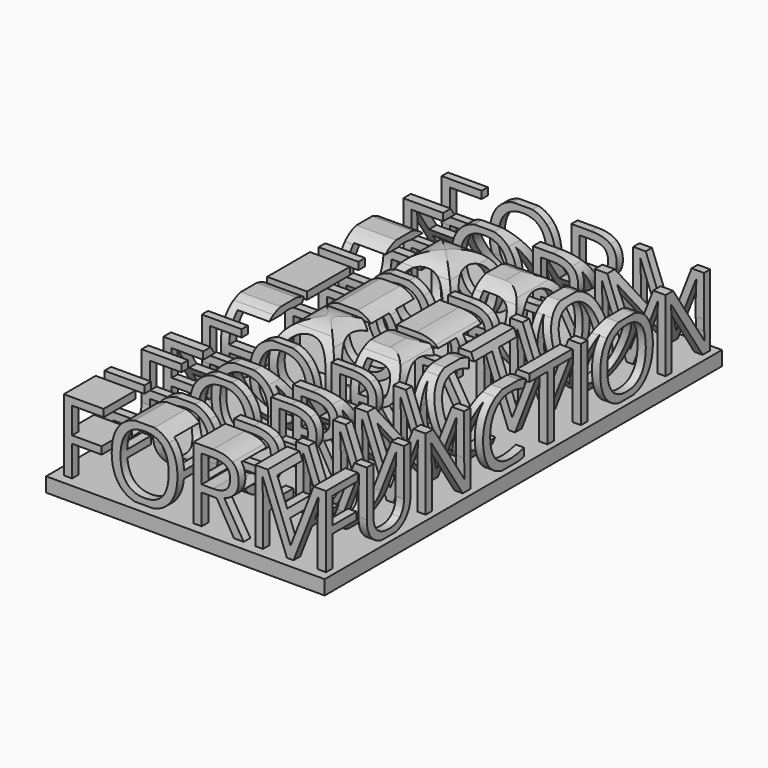
from build123d import *

# Parameters (mm, degrees)
F2_W     = 2.926953125
F2_H     = 25.1850260417
F3_DEPTH = 136.144
F4_DEPTH = 191.516


with BuildPart() as f3:
    # F2 (on offset) → F3 (new body)
    with BuildSketch(Plane.YZ.offset(127)):
        with BuildLine():
            Line((3.4616319444, 0), (0, 0))
            Line((0, 0), (0, -5.08))
            Line((0, -5.08), (174.9888020833, -5.08))
            Line((174.9888020833, -5.08), (174.9888020833, 0))
            Line((174.9888020833, 0), (172.7012586806, 0))
            Line((172.7012586806, 0), (169.3608940972, 0))
            Line((169.3608940972, 0), (155.7348524306, 0))
            Line((155.7348524306, 0), (153.0283854167, 0))
            Line((153.0283854167, 0), (139.0643108288, 0))
            add(Edge.make_bspline(
                [(139.0643108288, 0), (137.5805168301, -0.347265625), (135.8580295139, -0.347265625)],
                knots=[0.6833950988, 0.6833950988, 0.6833950988, 1, 1, 1], degree=2))
            add(Edge.make_bspline(
                [(135.8580295139, -0.347265625), (134.0815336274, -0.347265625), (132.5640107293, 0)],
                knots=[0, 0, 0, 0.319412416, 0.319412416, 0.319412416], degree=2))
            Line((132.5640107293, 0), (118.6490885417, 0))
            Line((118.6490885417, 0), (115.7221354167, 0))
            Line((115.7221354167, 0), (103.9536892361, 0))
            Line((103.9536892361, 0), (101.0267361111, 0))
            Line((101.0267361111, 0), (88.3756171691, 0))
            add(Edge.make_bspline(
                [(88.3756171691, 0), (86.5270236004, -0.347265625), (84.2477430556, -0.347265625)],
                knots=[0.406741787, 0.406741787, 0.406741787, 1, 1, 1], degree=2))
            add(Edge.make_bspline(
                [(84.2477430556, -0.347265625), (82.4647385118, -0.347265625), (80.9426080633, 0)],
                knots=[0, 0, 0, 0.3205826669, 0.3205826669, 0.3205826669], degree=2))
            Line((80.9426080633, 0), (67.022265625, 0))
            Line((67.022265625, 0), (63.6819010417, 0))
            Line((63.6819010417, 0), (50.055859375, 0))
            Line((50.055859375, 0), (47.3493923611, 0))
            Line((47.3493923611, 0), (34.0744199782, 0))
            add(Edge.make_bspline(
                [(34.0744199782, 0), (32.6414301082, -0.347265625), (30.9342013889, -0.347265625)],
                knots=[0.6245807712, 0.6245807712, 0.6245807712, 1, 1, 1], degree=2))
            add(Edge.make_bspline(
                [(30.9342013889, -0.347265625), (29.2336174549, -0.347265625), (27.8209440891, 0)],
                knots=[0, 0, 0, 0.3739580419, 0.3739580419, 0.3739580419], degree=2))
            Line((27.8209440891, 0), (6.3885850694, 0))
            Line((6.3885850694, 0), (3.4616319444, 0))
        make_face()
        Polygon((3.4616319444, 25.1850260417), (3.4616319444, 0), (6.3885850694, 0), (6.3885850694, 10.765234375), (16.8286024306, 10.765234375), (16.8286024306, 13.3669704861), (6.3885850694, 13.3669704861), (6.3885850694, 22.5832899306), (17.5010850694, 22.5832899306), (17.5010850694, 25.1850260417), align=None)
        with BuildLine():
            add(Edge.make_bspline(
                [(27.8209440891, 0), (25.4559921397, 0.5813562686), (23.8979383681, 2.1359592014)],
                knots=[0.3739580419, 0.3739580419, 0.3739580419, 1, 1, 1], degree=2))
            Line((27.8209440891, 0), (34.0744199782, 0))
            add(Edge.make_bspline(
                [(38.0834635417, 2.1166666667), (36.4584691948, 0.5777419356), (34.0744199782, 0)],
                knots=[0, 0, 0, 0.6245807712, 0.6245807712, 0.6245807712], degree=2))
            add(Edge.make_bspline(
                [(40.6851996528, 8.8911024306), (40.6851996528, 4.5805989583), (38.0834635417, 2.1166666667)],
                knots=[0, 0, 0, 1, 1, 1], degree=2))
            Line((40.6851996528, 8.8911024306), (40.6851996528, 25.1850260417))
            Line((40.6851996528, 25.1850260417), (37.7582465278, 25.1850260417))
            Line((37.7582465278, 25.1850260417), (37.7582465278, 8.7863715278))
            add(Edge.make_bspline(
                [(36.0356987847, 3.919140625), (37.7582465278, 5.6168836806), (37.7582465278, 8.7863715278)],
                knots=[0, 0, 0, 1, 1, 1], degree=2))
            add(Edge.make_bspline(
                [(31.1271267361, 2.2213975694), (34.3131510417, 2.2213975694), (36.0356987847, 3.919140625)],
                knots=[0, 0, 0, 1, 1, 1], degree=2))
            add(Edge.make_bspline(
                [(26.0642144097, 3.9108723958), (27.7867621528, 2.2213975694), (31.1271267361, 2.2213975694)],
                knots=[0, 0, 0, 1, 1, 1], degree=2))
            add(Edge.make_bspline(
                [(24.3416666667, 8.7532986111), (24.3416666667, 5.6003472222), (26.0642144097, 3.9108723958)],
                knots=[0, 0, 0, 1, 1, 1], degree=2))
            Line((24.3416666667, 8.7532986111), (24.3416666667, 25.1850260417))
            Line((24.3416666667, 25.1850260417), (21.4092013889, 25.1850260417))
            Line((21.4092013889, 25.1850260417), (21.4092013889, 8.9572482639))
            add(Edge.make_bspline(
                [(23.8979383681, 2.1359592014), (21.4092013889, 4.6191840278), (21.4092013889, 8.9572482639)],
                knots=[0, 0, 0, 1, 1, 1], degree=2))
        make_face()
        with BuildLine():
            Line((34.0744199782, 0), (27.8209440891, 0))
            add(Edge.make_bspline(
                [(30.9342013889, -0.347265625), (29.2336174549, -0.347265625), (27.8209440891, 0)],
                knots=[0, 0, 0, 0.3739580419, 0.3739580419, 0.3739580419], degree=2))
            add(Edge.make_bspline(
                [(34.0744199782, 0), (32.6414301082, -0.347265625), (30.9342013889, -0.347265625)],
                knots=[0.6245807712, 0.6245807712, 0.6245807712, 1, 1, 1], degree=2))
        make_face()
        with BuildLine():
            Line((169.3608940972, 0), (172.7012586806, 0))
            Line((172.7012586806, 0), (172.7012586806, 25.1850260417))
            Line((172.7012586806, 25.1850260417), (169.96171875, 25.1850260417))
            Line((169.96171875, 25.1850260417), (169.96171875, 10.7321614583))
            add(Edge.make_bspline(
                [(170.0499131944, 7.1217013889), (169.9286458333, 9.6462673611), (169.96171875, 10.7321614583)],
                knots=[0, 0, 0, 1, 1, 1], degree=2))
            add(Edge.make_bspline(
                [(170.2042534722, 4.1341145833), (170.1711805556, 4.5971354167), (170.0499131944, 7.1217013889)],
                knots=[0, 0, 0, 1, 1, 1], degree=2))
            Line((170.2042534722, 4.1341145833), (170.0664496528, 4.1341145833))
            Line((170.0664496528, 4.1341145833), (156.3356770833, 25.1850260417))
            Line((156.3356770833, 25.1850260417), (153.0283854167, 25.1850260417))
            Line((153.0283854167, 25.1850260417), (153.0283854167, 0))
            Line((153.0283854167, 0), (155.7348524306, 0))
            Line((155.7348524306, 0), (155.7348524306, 14.3150607639))
            add(Edge.make_bspline(
                [(155.4592447917, 21.13359375), (155.7348524306, 17.412890625), (155.7348524306, 14.3150607639)],
                knots=[0, 0, 0, 1, 1, 1], degree=2))
            Line((155.4592447917, 21.13359375), (155.5970486111, 21.13359375))
            Line((155.5970486111, 21.13359375), (169.3608940972, 0))
        make_face()
        with BuildLine():
            Line((47.3493923611, 25.1850260417), (47.3493923611, 0))
            Line((47.3493923611, 0), (50.055859375, 0))
            Line((50.055859375, 0), (50.055859375, 14.3150607639))
            add(Edge.make_bspline(
                [(49.7802517361, 21.13359375), (50.055859375, 17.412890625), (50.055859375, 14.3150607639)],
                knots=[0, 0, 0, 1, 1, 1], degree=2))
            Line((49.7802517361, 21.13359375), (49.9180555556, 21.13359375))
            Line((49.9180555556, 21.13359375), (63.6819010417, 0))
            Line((63.6819010417, 0), (67.022265625, 0))
            Line((67.022265625, 0), (67.022265625, 25.1850260417))
            Line((67.022265625, 25.1850260417), (64.2827256944, 25.1850260417))
            Line((64.2827256944, 25.1850260417), (64.2827256944, 10.7321614583))
            add(Edge.make_bspline(
                [(64.3709201389, 7.1217013889), (64.2496527778, 9.6462673611), (64.2827256944, 10.7321614583)],
                knots=[0, 0, 0, 1, 1, 1], degree=2))
            add(Edge.make_bspline(
                [(64.5252604167, 4.1341145833), (64.4921875, 4.5971354167), (64.3709201389, 7.1217013889)],
                knots=[0, 0, 0, 1, 1, 1], degree=2))
            Line((64.5252604167, 4.1341145833), (64.3874565972, 4.1341145833))
            Line((64.3874565972, 4.1341145833), (50.6566840278, 25.1850260417))
            Line((50.6566840278, 25.1850260417), (47.3493923611, 25.1850260417))
        make_face()
        with BuildLine():
            add(Edge.make_bspline(
                [(139.0643108288, 0), (137.5805168301, -0.347265625), (135.8580295139, -0.347265625)],
                knots=[0.6833950988, 0.6833950988, 0.6833950988, 1, 1, 1], degree=2))
            Line((139.0643108288, 0), (132.5640107293, 0))
            add(Edge.make_bspline(
                [(135.8580295139, -0.347265625), (134.0815336274, -0.347265625), (132.5640107293, 0)],
                knots=[0, 0, 0, 0.319412416, 0.319412416, 0.319412416], degree=2))
        make_face()
        with BuildLine():
            Line((132.5640107293, 0), (139.0643108288, 0))
            add(Edge.make_bspline(
                [(144.3577690972, 3.1171223958), (142.2670962007, 0.7495766022), (139.0643108288, 0)],
                knots=[0, 0, 0, 0.6833950988, 0.6833950988, 0.6833950988], degree=2))
            add(Edge.make_bspline(
                [(147.4170138889, 12.6283420139), (147.4170138889, 6.5815104167), (144.3577690972, 3.1171223958)],
                knots=[0, 0, 0, 1, 1, 1], degree=2))
            add(Edge.make_bspline(
                [(144.3687934028, 22.1368055556), (147.4170138889, 18.6917100694), (147.4170138889, 12.6283420139)],
                knots=[0, 0, 0, 1, 1, 1], degree=2))
            add(Edge.make_bspline(
                [(135.8911024306, 25.5819010417), (141.3205729167, 25.5819010417), (144.3687934028, 22.1368055556)],
                knots=[0, 0, 0, 1, 1, 1], degree=2))
            add(Edge.make_bspline(
                [(127.2811197917, 22.1974392361), (130.3128038194, 25.5819010417), (135.8911024306, 25.5819010417)],
                knots=[0, 0, 0, 1, 1, 1], degree=2))
            add(Edge.make_bspline(
                [(124.2494357639, 12.6614149306), (124.2494357639, 18.8129774306), (127.2811197917, 22.1974392361)],
                knots=[0, 0, 0, 1, 1, 1], degree=2))
            add(Edge.make_bspline(
                [(127.2728515625, 3.0564887153), (124.2494357639, 6.4602430556), (124.2494357639, 12.6614149306)],
                knots=[0, 0, 0, 1, 1, 1], degree=2))
            add(Edge.make_bspline(
                [(132.5640107293, 0), (129.3305508163, 0.7399357723), (127.2728515625, 3.0564887153)],
                knots=[0.319412416, 0.319412416, 0.319412416, 1, 1, 1], degree=2))
        make_face()
        with BuildLine():
            add(Edge.make_bspline(
                [(127.347265625, 12.6283420139), (127.347265625, 7.5130642361), (129.5273220486, 4.8672309028)],
                knots=[0, 0, 0, 1, 1, 1], degree=2))
            add(Edge.make_bspline(
                [(129.5273220486, 20.3177951389), (127.347265625, 17.6719618056), (127.347265625, 12.6283420139)],
                knots=[0, 0, 0, 1, 1, 1], degree=2))
            add(Edge.make_bspline(
                [(135.8911024306, 22.9636284722), (131.7073784722, 22.9636284722), (129.5273220486, 20.3177951389)],
                knots=[0, 0, 0, 1, 1, 1], degree=2))
            add(Edge.make_bspline(
                [(142.1859809028, 20.3370876736), (140.0582899306, 22.9636284722), (135.8911024306, 22.9636284722)],
                knots=[0, 0, 0, 1, 1, 1], degree=2))
            add(Edge.make_bspline(
                [(144.313671875, 12.6283420139), (144.313671875, 17.710546875), (142.1859809028, 20.3370876736)],
                knots=[0, 0, 0, 1, 1, 1], degree=2))
            add(Edge.make_bspline(
                [(142.1777126736, 4.8562065972), (144.313671875, 7.491015625), (144.313671875, 12.6283420139)],
                knots=[0, 0, 0, 1, 1, 1], degree=2))
            add(Edge.make_bspline(
                [(135.8580295139, 2.2213975694), (140.0417534722, 2.2213975694), (142.1777126736, 4.8562065972)],
                knots=[0, 0, 0, 1, 1, 1], degree=2))
            add(Edge.make_bspline(
                [(129.5273220486, 4.8672309028), (131.7073784722, 2.2213975694), (135.8580295139, 2.2213975694)],
                knots=[0, 0, 0, 1, 1, 1], degree=2))
        make_face(mode=Mode.SUBTRACT)
        with BuildLine():
            add(Edge.make_bspline(
                [(80.9426080633, 0), (77.7167262029, 0.7359670661), (75.6625651042, 3.0316840278)],
                knots=[0.3205826669, 0.3205826669, 0.3205826669, 1, 1, 1], degree=2))
            Line((80.9426080633, 0), (88.3756171691, 0))
            add(Edge.make_bspline(
                [(90.7079861111, 0.6394097222), (89.6430252473, 0.2380876283), (88.3756171691, 0)],
                knots=[0, 0, 0, 0.406741787, 0.406741787, 0.406741787], degree=2))
            Line((90.7079861111, 0.6394097222), (90.7079861111, 3.2025607639))
            add(Edge.make_bspline(
                [(84.6942274306, 2.2544704861), (87.3290364583, 2.2544704861), (90.7079861111, 3.2025607639)],
                knots=[0, 0, 0, 1, 1, 1], degree=2))
            add(Edge.make_bspline(
                [(78.0879123264, 4.9526692708), (80.4057725694, 2.2544704861), (84.6942274306, 2.2544704861)],
                knots=[0, 0, 0, 1, 1, 1], degree=2))
            add(Edge.make_bspline(
                [(75.7700520833, 12.5897569444), (75.7700520833, 7.6508680556), (78.0879123264, 4.9526692708)],
                knots=[0, 0, 0, 1, 1, 1], degree=2))
            add(Edge.make_bspline(
                [(78.1733506944, 20.1606987847), (75.7700520833, 17.3963541667), (75.7700520833, 12.5897569444)],
                knots=[0, 0, 0, 1, 1, 1], degree=2))
            add(Edge.make_bspline(
                [(84.7273003472, 22.9250434028), (80.5766493056, 22.9250434028), (78.1733506944, 20.1606987847)],
                knots=[0, 0, 0, 1, 1, 1], degree=2))
            add(Edge.make_bspline(
                [(90.4489149306, 21.5855902778), (87.5881076389, 22.9250434028), (84.7273003472, 22.9250434028)],
                knots=[0, 0, 0, 1, 1, 1], degree=2))
            Line((90.4489149306, 21.5855902778), (91.6891493056, 24.0991319444))
            add(Edge.make_bspline(
                [(84.7658854167, 25.5433159722), (88.7236111111, 25.5433159722), (91.6891493056, 24.0991319444)],
                knots=[0, 0, 0, 1, 1, 1], degree=2))
            add(Edge.make_bspline(
                [(78.2973741319, 23.9585720486), (81.0451822917, 25.5433159722), (84.7658854167, 25.5433159722)],
                knots=[0, 0, 0, 1, 1, 1], degree=2))
            add(Edge.make_bspline(
                [(74.0943576389, 19.446875), (75.5495659722, 22.373828125), (78.2973741319, 23.9585720486)],
                knots=[0, 0, 0, 1, 1, 1], degree=2))
            add(Edge.make_bspline(
                [(72.6391493056, 12.6283420139), (72.6391493056, 16.519921875), (74.0943576389, 19.446875)],
                knots=[0, 0, 0, 1, 1, 1], degree=2))
            add(Edge.make_bspline(
                [(75.6625651042, 3.0316840278), (72.6391493056, 6.4106336806), (72.6391493056, 12.6283420139)],
                knots=[0, 0, 0, 1, 1, 1], degree=2))
        make_face()
        with BuildLine():
            Line((88.3756171691, 0), (80.9426080633, 0))
            add(Edge.make_bspline(
                [(84.2477430556, -0.347265625), (82.4647385118, -0.347265625), (80.9426080633, 0)],
                knots=[0, 0, 0, 0.3205826669, 0.3205826669, 0.3205826669], degree=2))
            add(Edge.make_bspline(
                [(88.3756171691, 0), (86.5270236004, -0.347265625), (84.2477430556, -0.347265625)],
                knots=[0.406741787, 0.406741787, 0.406741787, 1, 1, 1], degree=2))
        make_face()
        with Locations((117.1856119792, 12.5925130208)):
            Rectangle(F2_W, F2_H)
        Polygon((101.0267361111, 22.5832899306), (101.0267361111, 0), (103.9536892361, 0), (103.9536892361, 22.5832899306), (111.9297743056, 22.5832899306), (111.9297743056, 25.1850260417), (93.0506510417, 25.1850260417), (93.0506510417, 22.5832899306), align=None)
    extrude(amount=-F3_DEPTH)


with BuildPart() as f4:
    # F0 (on Front) → F4 (new body)
    with BuildSketch(Plane.XZ):
        with BuildLine():
            Line((3.4616319444, 0), (0, 0))
            Line((0, 0), (0, -5.08))
            Line((0, -5.08), (98.176953125, -5.08))
            Line((98.176953125, -5.08), (98.176953125, 0))
            Line((98.176953125, 0), (95.8894097222, 0))
            Line((95.8894097222, 0), (92.9624565972, 0))
            Line((92.9624565972, 0), (84.4516927083, 0))
            Line((84.4516927083, 0), (82.0924913194, 0))
            Line((82.0924913194, 0), (73.6533854167, 0))
            Line((73.6533854167, 0), (70.9469184028, 0))
            Line((70.9469184028, 0), (66.8844618056, 0))
            Line((66.8844618056, 0), (63.4228298611, 0))
            Line((63.4228298611, 0), (52.0677951389, 0))
            Line((52.0677951389, 0), (49.1408420139, 0))
            Line((49.1408420139, 0), (35.176767426, 0))
            add(Edge.make_bspline(
                [(35.176767426, 0), (33.6929734273, -0.347265625), (31.9704861111, -0.347265625)],
                knots=[0.6833950988, 0.6833950988, 0.6833950988, 1, 1, 1], degree=2))
            add(Edge.make_bspline(
                [(31.9704861111, -0.347265625), (30.1939902246, -0.347265625), (28.6764673265, 0)],
                knots=[0, 0, 0, 0.319412416, 0.319412416, 0.319412416], degree=2))
            Line((28.6764673265, 0), (6.3885850694, 0))
            Line((6.3885850694, 0), (3.4616319444, 0))
        make_face()
        Polygon((3.4616319444, 25.1850260417), (3.4616319444, 0), (6.3885850694, 0), (6.3885850694, 10.765234375), (16.8286024306, 10.765234375), (16.8286024306, 13.3669704861), (6.3885850694, 13.3669704861), (6.3885850694, 22.5832899306), (17.5010850694, 22.5832899306), (17.5010850694, 25.1850260417), align=None)
        with BuildLine():
            add(Edge.make_bspline(
                [(28.6764673265, 0), (25.4430074135, 0.7399357723), (23.3853081597, 3.0564887153)],
                knots=[0.319412416, 0.319412416, 0.319412416, 1, 1, 1], degree=2))
            Line((28.6764673265, 0), (35.176767426, 0))
            add(Edge.make_bspline(
                [(40.4702256944, 3.1171223958), (38.3795527979, 0.7495766022), (35.176767426, 0)],
                knots=[0, 0, 0, 0.6833950988, 0.6833950988, 0.6833950988], degree=2))
            add(Edge.make_bspline(
                [(43.5294704861, 12.6283420139), (43.5294704861, 6.5815104167), (40.4702256944, 3.1171223958)],
                knots=[0, 0, 0, 1, 1, 1], degree=2))
            add(Edge.make_bspline(
                [(40.48125, 22.1368055556), (43.5294704861, 18.6917100694), (43.5294704861, 12.6283420139)],
                knots=[0, 0, 0, 1, 1, 1], degree=2))
            add(Edge.make_bspline(
                [(32.0035590278, 25.5819010417), (37.4330295139, 25.5819010417), (40.48125, 22.1368055556)],
                knots=[0, 0, 0, 1, 1, 1], degree=2))
            add(Edge.make_bspline(
                [(23.3935763889, 22.1974392361), (26.4252604167, 25.5819010417), (32.0035590278, 25.5819010417)],
                knots=[0, 0, 0, 1, 1, 1], degree=2))
            add(Edge.make_bspline(
                [(20.3618923611, 12.6614149306), (20.3618923611, 18.8129774306), (23.3935763889, 22.1974392361)],
                knots=[0, 0, 0, 1, 1, 1], degree=2))
            add(Edge.make_bspline(
                [(23.3853081597, 3.0564887153), (20.3618923611, 6.4602430556), (20.3618923611, 12.6614149306)],
                knots=[0, 0, 0, 1, 1, 1], degree=2))
        make_face()
        with BuildLine():
            add(Edge.make_bspline(
                [(23.4597222222, 12.6283420139), (23.4597222222, 7.5130642361), (25.6397786458, 4.8672309028)],
                knots=[0, 0, 0, 1, 1, 1], degree=2))
            add(Edge.make_bspline(
                [(25.6397786458, 20.3177951389), (23.4597222222, 17.6719618056), (23.4597222222, 12.6283420139)],
                knots=[0, 0, 0, 1, 1, 1], degree=2))
            add(Edge.make_bspline(
                [(32.0035590278, 22.9636284722), (27.8198350694, 22.9636284722), (25.6397786458, 20.3177951389)],
                knots=[0, 0, 0, 1, 1, 1], degree=2))
            add(Edge.make_bspline(
                [(38.2984375, 20.3370876736), (36.1707465278, 22.9636284722), (32.0035590278, 22.9636284722)],
                knots=[0, 0, 0, 1, 1, 1], degree=2))
            add(Edge.make_bspline(
                [(40.4261284722, 12.6283420139), (40.4261284722, 17.710546875), (38.2984375, 20.3370876736)],
                knots=[0, 0, 0, 1, 1, 1], degree=2))
            add(Edge.make_bspline(
                [(38.2901692708, 4.8562065972), (40.4261284722, 7.491015625), (40.4261284722, 12.6283420139)],
                knots=[0, 0, 0, 1, 1, 1], degree=2))
            add(Edge.make_bspline(
                [(31.9704861111, 2.2213975694), (36.1542100694, 2.2213975694), (38.2901692708, 4.8562065972)],
                knots=[0, 0, 0, 1, 1, 1], degree=2))
            add(Edge.make_bspline(
                [(25.6397786458, 4.8672309028), (27.8198350694, 2.2213975694), (31.9704861111, 2.2213975694)],
                knots=[0, 0, 0, 1, 1, 1], degree=2))
        make_face(mode=Mode.SUBTRACT)
        with BuildLine():
            Line((35.176767426, 0), (28.6764673265, 0))
            add(Edge.make_bspline(
                [(31.9704861111, -0.347265625), (30.1939902246, -0.347265625), (28.6764673265, 0)],
                knots=[0, 0, 0, 0.319412416, 0.319412416, 0.319412416], degree=2))
            add(Edge.make_bspline(
                [(35.176767426, 0), (33.6929734273, -0.347265625), (31.9704861111, -0.347265625)],
                knots=[0.6833950988, 0.6833950988, 0.6833950988, 1, 1, 1], degree=2))
        make_face()
        with BuildLine():
            Line((92.9624565972, 0), (95.8894097222, 0))
            Line((95.8894097222, 0), (95.8894097222, 25.1850260417))
            Line((95.8894097222, 25.1850260417), (91.5127604167, 25.1850260417))
            Line((91.5127604167, 25.1850260417), (83.4705295139, 4.4097222222))
            Line((83.4705295139, 4.4097222222), (83.3327256944, 4.4097222222))
            Line((83.3327256944, 4.4097222222), (75.356640625, 25.1850260417))
            Line((75.356640625, 25.1850260417), (70.9469184028, 25.1850260417))
            Line((70.9469184028, 25.1850260417), (70.9469184028, 0))
            Line((70.9469184028, 0), (73.6533854167, 0))
            Line((73.6533854167, 0), (73.6533854167, 16.0183159722))
            add(Edge.make_bspline(
                [(73.4108506944, 22.32421875), (73.6533854167, 19.6728732639), (73.6533854167, 16.0183159722)],
                knots=[0, 0, 0, 1, 1, 1], degree=2))
            Line((73.4108506944, 22.32421875), (73.5486545139, 22.32421875))
            Line((73.5486545139, 22.32421875), (82.0924913194, 0))
            Line((82.0924913194, 0), (84.4516927083, 0))
            Line((84.4516927083, 0), (93.0671875, 22.2911458333))
            Line((93.0671875, 22.2911458333), (93.2049913194, 22.2911458333))
            add(Edge.make_bspline(
                [(92.9624565972, 16.2277777778), (92.9624565972, 19.0169270833), (93.2049913194, 22.2911458333)],
                knots=[0, 0, 0, 1, 1, 1], degree=2))
            Line((92.9624565972, 16.2277777778), (92.9624565972, 0))
        make_face()
        with BuildLine():
            Line((49.1408420139, 25.1850260417), (49.1408420139, 0))
            Line((49.1408420139, 0), (52.0677951389, 0))
            Line((52.0677951389, 0), (52.0677951389, 10.4730902778))
            Line((52.0677951389, 10.4730902778), (57.3263888889, 10.4730902778))
            Line((57.3263888889, 10.4730902778), (63.4228298611, 0))
            Line((63.4228298611, 0), (66.8844618056, 0))
            Line((66.8844618056, 0), (60.0438802083, 11.3164496528))
            add(Edge.make_bspline(
                [(65.1095486111, 18.0688368056), (65.1095486111, 13.0748263889), (60.0438802083, 11.3164496528)],
                knots=[0, 0, 0, 1, 1, 1], degree=2))
            add(Edge.make_bspline(
                [(62.8964192708, 23.4101128472), (65.1095486111, 21.6351996528), (65.1095486111, 18.0688368056)],
                knots=[0, 0, 0, 1, 1, 1], degree=2))
            add(Edge.make_bspline(
                [(56.0475694444, 25.1850260417), (60.6832899306, 25.1850260417), (62.8964192708, 23.4101128472)],
                knots=[0, 0, 0, 1, 1, 1], degree=2))
            Line((56.0475694444, 25.1850260417), (49.1408420139, 25.1850260417))
        make_face()
        with BuildLine():
            Line((56.0861545139, 12.9866319444), (52.0677951389, 12.9866319444))
            Line((52.0677951389, 12.9866319444), (52.0677951389, 22.6163628472))
            Line((52.0677951389, 22.6163628472), (55.8766927083, 22.6163628472))
            add(Edge.make_bspline(
                [(60.6061197917, 21.5139322917), (59.134375, 22.6163628472), (55.8766927083, 22.6163628472)],
                knots=[0, 0, 0, 1, 1, 1], degree=2))
            add(Edge.make_bspline(
                [(62.0778645833, 17.9144965278), (62.0778645833, 20.4115017361), (60.6061197917, 21.5139322917)],
                knots=[0, 0, 0, 1, 1, 1], degree=2))
            add(Edge.make_bspline(
                [(60.6309244792, 14.2185980903), (62.0778645833, 15.4505642361), (62.0778645833, 17.9144965278)],
                knots=[0, 0, 0, 1, 1, 1], degree=2))
            add(Edge.make_bspline(
                [(56.0861545139, 12.9866319444), (59.183984375, 12.9866319444), (60.6309244792, 14.2185980903)],
                knots=[0, 0, 0, 1, 1, 1], degree=2))
        make_face(mode=Mode.SUBTRACT)
    extrude(amount=-F4_DEPTH)


with BuildPart() as f3_1:
    add(f3.part)

    # F5: intersect F4
    add(f4.part, mode=Mode.INTERSECT)


solid = f3_1.part
